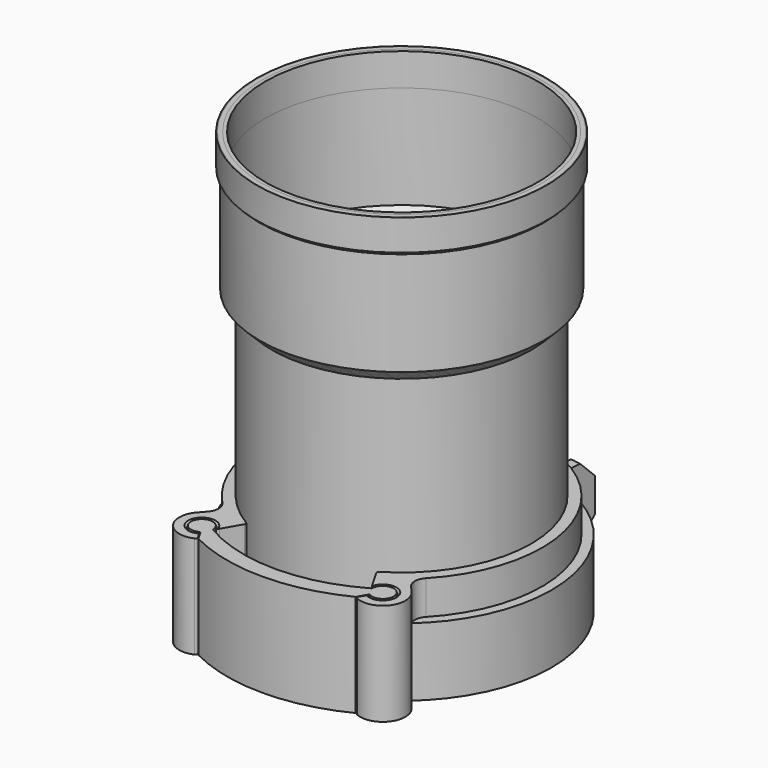
from build123d import *

# Parameters (mm, degrees)
PAD_DEPTH       = 20
FILLET_R        = 4
FILLET001_R     = 5
SKETCH001_R     = 3
POCKET_DEPTH    = 44.1349836614
SKETCH002_R     = 3
POCKET001_DEPTH = 44.1349836614
CHAMFER_SIZE    = 5
PAD001_DEPTH    = 30
FILLET003_R     = 4
CHAMFER001_SIZE = 0.6
FILLET004_R     = 0.6
PAD002_DEPTH    = 30


with BuildPart() as clamp:
    # Sketch → Pad (new body)
    with BuildSketch(Plane.XY):
        with BuildLine():
            ThreePointArc((-9.19095087, 43.0293669731), (0, -44), (9.19095087, 43.0293669731))
            Line((9.19095087, 43.0293669731), (10.2974339091, 57.9885011487))
            ThreePointArc((10.2974339091, 57.9885011487), (8.8128622559, 58.2326100175), (7.3225396685, 58.4387185297))
            Line((7.3225396685, 58.4387185297), (6, 40.5585995813))
            ThreePointArc((-6, 40.5585995813), (0, -41), (6, 40.5585995813))
            Line((-7.3225396685, 58.4387185297), (-6, 40.5585995813))
            ThreePointArc((-7.3225396685, 58.4387185297), (-8.8128622559, 58.2326100175), (-10.2974339091, 57.9885011487))
            Line((-9.19095087, 43.0293669731), (-10.2974339091, 57.9885011487))
        make_face()
    extrude(amount=PAD_DEPTH)

    # Fillet
    fillet_edges = [clamp.edges().sort_by_distance(p)[0] for p in [
        (9.190951, 43.029367, 10),
        (-9.190951, 43.029367, 10),
    ]]
    fillet(fillet_edges, radius=FILLET_R)

    # Fillet001
    fillet001_edges = [clamp.edges().sort_by_distance(p)[0] for p in [
        (-6, 40.5586, 10),
        (6, 40.5586, 10),
    ]]
    fillet(fillet001_edges, radius=FILLET001_R)

    # Sketch001 (on DatumPlane) → Pocket (cut, through all)
    with BuildSketch(Plane(origin=(6.7523655545, 50.7302306687, 0), x_dir=(-0.0737655359, -0.9972756117, 0), z_dir=(-0.9972756117, 0.0737655359, 0))):
        with Locations((0, 10)):
            Circle(SKETCH001_R)
    extrude(amount=-POCKET_DEPTH, mode=Mode.SUBTRACT)

    # Sketch002 (on DatumPlane) → Pocket001 (cut, through all)
    with BuildSketch(Plane(origin=(-6.7523655545, 50.7302306687, 0), x_dir=(0.0737655359, -0.9972756117, 0), z_dir=(-0.9972756117, -0.0737655359, 0))):
        with Locations((0, 10)):
            Circle(SKETCH002_R)
    extrude(amount=POCKET001_DEPTH, mode=Mode.SUBTRACT)

    # Chamfer
    chamfer_edges = [clamp.edges().sort_by_distance(p)[0] for p in [
        (-8.812862, 58.23261, 0),
        (8.812862, 58.23261, 0),
        (-8.812862, 58.23261, 20),
        (8.812862, 58.23261, 20),
    ]]
    chamfer(chamfer_edges, length=CHAMFER_SIZE)


with BuildPart() as joiner:
    # Sketch004 → Revolution (revolve)
    with BuildSketch(Plane.XZ):
        Polygon((-41.6, 83.6), (-38, 80), (-38, 0), (-36.4, 0), (-36.4, 80.6627416998), (-40, 84.2627416998), (-40, 124), (-42.5, 124), (-42.5, 114.9), (-41.6, 114), align=None)
    revolve(axis=Axis((0, 0, 0), (0, 0, 1)))


with BuildPart() as joiner_vase:
    # Sketch005 → Revolution001 (revolve)
    with BuildSketch(Plane.XZ):
        Polygon((-38, 0), (-36.8, 0), (-36.8, 80.4970562748), (-40, 83.6970562748), (-40, 114.4970562748), (-41, 115.4970562748), (-41, 124), (-42.2, 124), (-42.2, 115), (-41.2, 114), (-41.2, 83.2), (-38, 80), align=None)
    revolve(axis=Axis((0, 0, 0), (0, 0, 1)))


with BuildPart() as obj1:
    # Sketch006 → Pad001 (new body)
    with BuildSketch(Plane.XY):
        with BuildLine():
            ThreePointArc((19, -32.9089653438), (0, 38), (-19, -32.9089653438))
            Line((-19, -32.9089653438), (-23.1325457364, -40.0667445239))
            ThreePointArc((-23.1325457364, -40.0667445239), (-29.4770321093, -38.3667445239), (-24.8325457364, -43.0112308967))
            Line((-24.8325457364, -43.0112308967), (-23.2325457364, -45.7825121889))
            ThreePointArc((-31.48275219, -35.7014889681), (-31.6401432763, -44.2467501903), (-23.2325457364, -45.7825121889))
            Line((-27.2497771056, -30.9012887708), (-31.48275219, -35.7014889681))
            ThreePointArc((27.2497771056, -30.9012887707), (0, 41.2), (-27.2497771056, -30.9012887707))
            Line((27.2497771056, -30.9012887707), (31.48275219, -35.7014889681))
            ThreePointArc((23.2325457364, -45.7825121889), (31.6401432763, -44.2467501903), (31.48275219, -35.7014889681))
            Line((24.8325457364, -43.0112308967), (23.2325457364, -45.7825121889))
            ThreePointArc((24.8325457364, -43.0112308968), (29.4770321093, -38.3667445239), (23.1325457364, -40.0667445239))
            Line((19, -32.9089653438), (23.1325457364, -40.0667445239))
        make_face()
    extrude(amount=PAD001_DEPTH)

    # Fillet003
    fillet003_edges = [obj1.edges().sort_by_distance(p)[0] for p in [
        (27.249777, -30.901289, 15),
        (-27.249777, -30.901289, 15),
    ]]
    fillet(fillet003_edges, radius=FILLET003_R)

    # Chamfer001
    chamfer001_edges = [obj1.edges().sort_by_distance(p)[0] for p in [
        (-29.477032, -38.366745, 30),
        (29.477032, -38.366745, 30),
        (29.477032, -38.366745, 0),
        (-29.477032, -38.366745, 0),
    ]]
    chamfer(chamfer001_edges, length=CHAMFER001_SIZE)

    # Fillet004
    fillet004_edges = [obj1.edges().sort_by_distance(p)[0] for p in [
        (-23.232546, -45.782512, 15),
        (-24.832546, -43.011231, 15),
        (-23.132546, -40.066745, 15),
        (23.132546, -40.066745, 15),
        (24.832546, -43.011231, 15),
        (23.232546, -45.782512, 15),
        (19, -32.908965, 15),
        (-19, -32.908965, 15),
    ]]
    fillet(fillet004_edges, radius=FILLET004_R)


with BuildPart() as obj2:
    # Sketch007 → Pad002 (new body)
    with BuildSketch(Plane.XY):
        with BuildLine():
            ThreePointArc((-23.3325457364, -40.0667445239), (0, -46.365414991), (23.3325457364, -40.0667445239))
            ThreePointArc((24.9325457364, -42.838025816), (29.3038270286, -38.4667445239), (23.3325457364, -40.0667445239))
            ThreePointArc((24.5863501167, -43.0376542187), (24.7596491191, -42.9381889256), (24.9325457364, -42.838025816))
            Line((23.0608561552, -45.6798872667), (24.5863501167, -43.0376542187))
            ThreePointArc((-23.0608561552, -45.6798872667), (0, -51.1708431366), (23.0608561552, -45.6798872667))
            Line((-24.5863501167, -43.0376542187), (-23.0608561552, -45.6798872667))
            ThreePointArc((-24.9325457364, -42.838025816), (-24.7596491191, -42.9381889256), (-24.5863501167, -43.0376542187))
            ThreePointArc((-23.3325457364, -40.0667445239), (-29.3038270285, -38.4667445239), (-24.9325457364, -42.838025816))
        make_face()
    extrude(amount=PAD002_DEPTH)


solid = Compound([clamp.part, joiner.part, joiner_vase.part, obj1.part, obj2.part])
